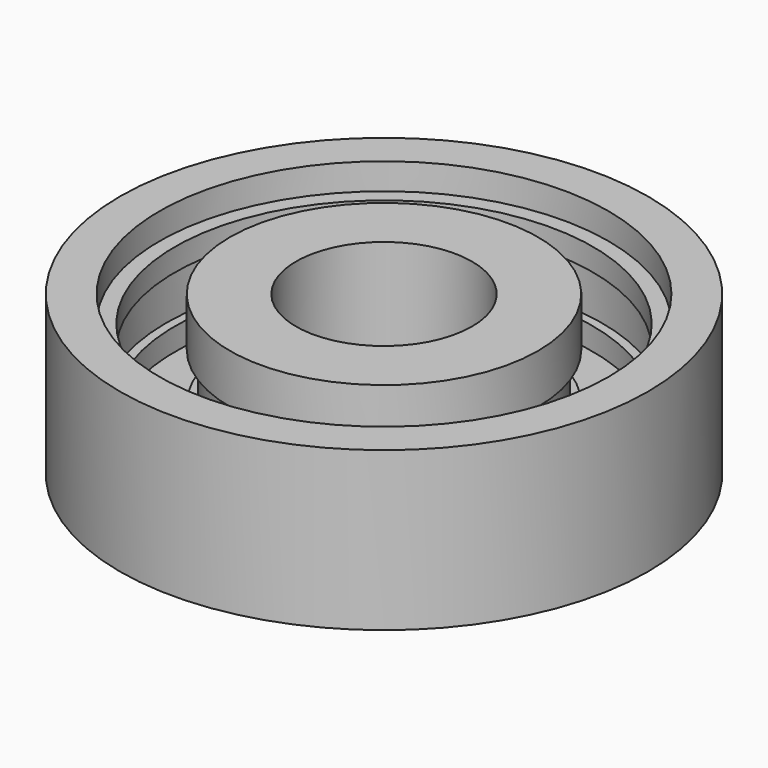
from build123d import *

# Parameters (mm, degrees)
F0_R     = 15
F0_R_2   = 12.75
F1_DEPTH = 9
F0_R_3   = 8.75
F0_R_4   = 5
F0_R_5   = 11.875
F2_DEPTH = 7.5
F3_DEPTH = 2.252
F5_START = -1.278
F4_R     = 12.375
F5_DEPTH = 2.692
F7_START = -2.791
F7_DEPTH = 2.692


with BuildPart() as f1:
    # F0 (on Top) → F1 (new body)
    with BuildSketch(Plane.XY):
        Circle(F0_R)
        Circle(F0_R_2, mode=Mode.SUBTRACT)
    extrude(amount=F1_DEPTH)

    # F0 (on Top) → F2 (join)
    with BuildSketch(Plane.XY):
        Circle(F0_R_2)
        Circle(F0_R_5, mode=Mode.SUBTRACT)
    extrude(amount=F2_DEPTH)

    # F4 (on face) → F5 (cut)
    with BuildSketch(Plane.XY.offset(7.5).offset(F5_START)):
        Circle(F4_R)
        with BuildLine():
            ThreePointArc((0, 11.875), (8.3968930266, 8.3968930266), (11.875, 0))
            ThreePointArc((11.875, 0), (-8.3968930266, -8.3968930266), (0, 11.875))
        make_face(mode=Mode.SUBTRACT)
    extrude(amount=-F5_DEPTH, mode=Mode.SUBTRACT)


with BuildPart() as f1b:
    # F0 (on Top) → F1, piece 2 (new body)
    with BuildSketch(Plane.XY):
        Circle(F0_R_3)
        Circle(F0_R_4, mode=Mode.SUBTRACT)
    extrude(amount=F1_DEPTH)

    # F6 (on face) → F7 (cut)
    with BuildSketch(Plane.XY.offset(9).offset(F7_START)):
        with BuildLine():
            ThreePointArc((8.75, 0), (6.1871843354, 6.1871843354), (0, 8.75))
            ThreePointArc((0, 8.75), (-6.1871843354, -6.1871843354), (8.75, 0))
        make_face()
        with BuildLine():
            ThreePointArc((8.25, 0), (-5.8336309448, -5.8336309448), (0, 8.25))
            ThreePointArc((0, 8.25), (5.8336309448, 5.8336309448), (8.25, 0))
        make_face(mode=Mode.SUBTRACT)
    extrude(amount=-F7_DEPTH, mode=Mode.SUBTRACT)


with BuildPart() as f3:
    # F0 (on Top) → F3 (new body)
    with BuildSketch(Plane.XY):
        Circle(F0_R_5)
        Circle(F0_R_3, mode=Mode.SUBTRACT)
    extrude(amount=F3_DEPTH)


solid = Compound([f1.part, f1b.part, f3.part])
